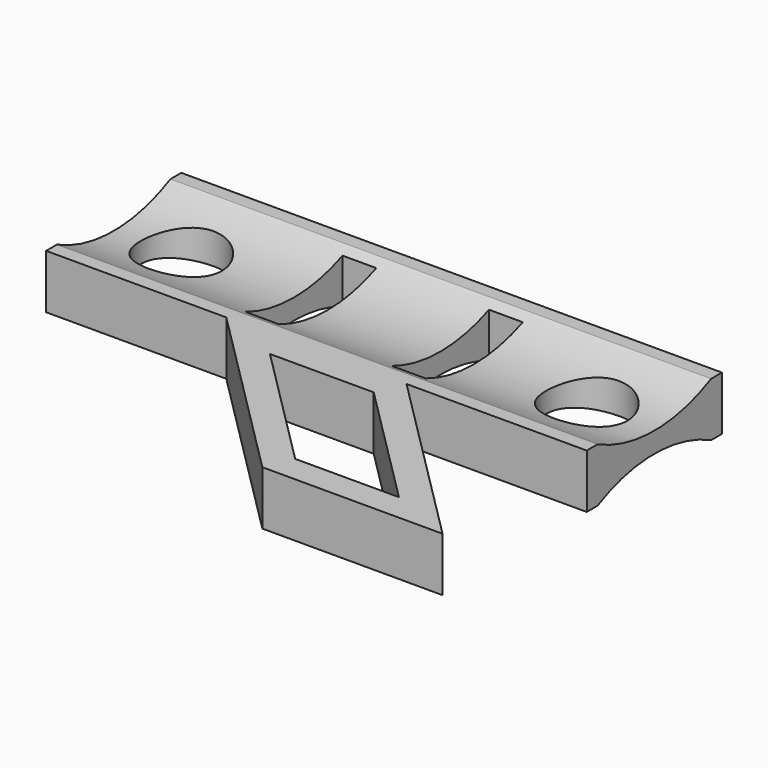
from build123d import *

# Parameters (mm, degrees)
SKETCH_R     = 6
SKETCH_W     = 5
SKETCH_H     = 18
PAD_DEPTH    = 4
POCKET_DEPTH = 80.001


with BuildPart() as part:
    # Sketch → Pad (new body, symmetric)
    with BuildSketch(Plane.XY):
        Polygon((-40, 12.5), (-40, -12.5), (-13.333333, -12.5), (13.333333, -39.166667), (40, -39.166667), (13.333333, -12.5), (40, -12.5), (40, 12.5), align=None)
        with Locations((-30, 0)):
            Circle(SKETCH_R, mode=Mode.SUBTRACT)
        with Locations((30, 0)):
            Circle(SKETCH_R, mode=Mode.SUBTRACT)
        with Locations((-10.833333, 0)):
            Rectangle(SKETCH_W, SKETCH_H, mode=Mode.SUBTRACT)
        with Locations((10.833333, 0)):
            Rectangle(SKETCH_W, SKETCH_H, mode=Mode.SUBTRACT)
        Polygon((-3.676479, -16.5), (11.676479, -16.5), (30.343146, -35.166667), (14.990188, -35.166667), align=None, mode=Mode.SUBTRACT)
    extrude(amount=PAD_DEPTH, both=True)

    # Sketch002 → Pocket (cut, through all)
    with BuildSketch(Plane(origin=(-40, 0, 0), x_dir=(0, -1, 0), z_dir=(-1, 0, 0))):
        with BuildLine():
            ThreePointArc((-10.5, 4), (0, 1.5), (10.5, 4))
            Line((-10.5, 4), (10.5, 4))
        make_face()
        with BuildLine():
            Line((-10.5, -4), (10.5, -4))
            ThreePointArc((10.5, -4), (0, -1.5), (-10.5, -4))
        make_face()
    extrude(amount=-POCKET_DEPTH, mode=Mode.SUBTRACT)


solid = part.part
